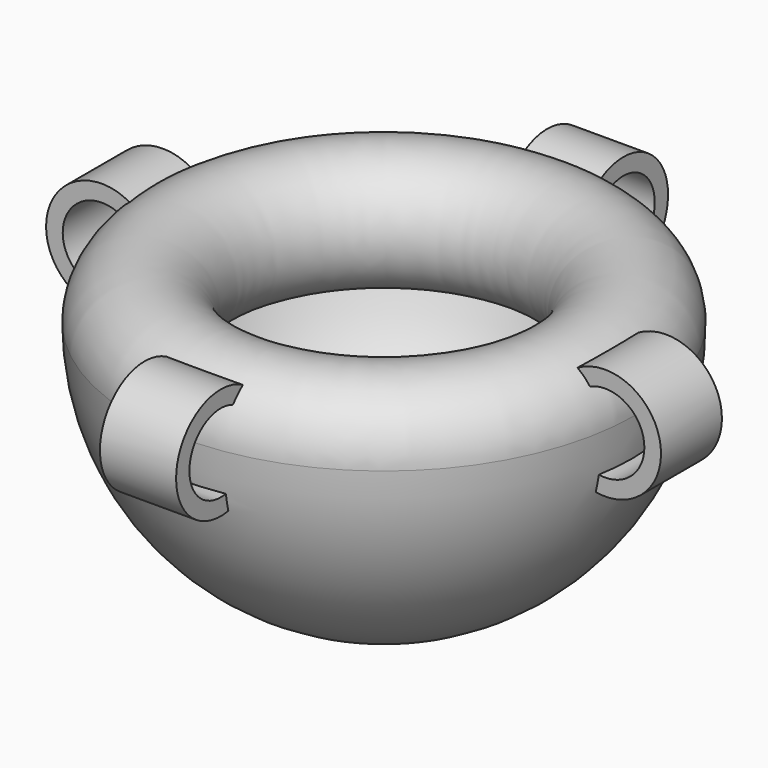
from build123d import *

# Parameters (mm, degrees)
F2_R     = 18.3396458196
F2_R_2   = 12.8738649412
F3_DEPTH = 12.5
F4_COUNT = 4
F4_ANGLE = 270


with BuildPart() as f1:
    # F0 (on Front) → F1 (revolve)
    with BuildSketch(Plane.XZ):
        with BuildLine():
            ThreePointArc((59.3, -19.7423402868), (36.5537531047, -50.6958887284), (0, -62.5))
            Line((0, -62.5), (0, -82.5))
            ThreePointArc((0, -82.5), (58.3363094479, -58.3363094479), (82.5, 0))
            ThreePointArc((82.5, 0), (49.5385186032, 15.2315462117), (59.3, -19.7423402868))
        make_face()
    revolve(axis=Axis((0, 0, 14.3070674052), (0, 0, -1)))

    # F2 (on Front) → F3 (join, symmetric)
    with BuildSketch(Plane.XZ):
        with Locations((-82.6222896576, 0)):
            Circle(F2_R)
        with Locations((-82.6222896576, 0)):
            Circle(F2_R_2, mode=Mode.SUBTRACT)
    extrude(amount=F3_DEPTH, both=True)

    # F4: F1 ×4 about axis
    f4_axis = Axis((0, 0, 14.3070674052), (0, 0, -1))


with BuildPart() as f1_1:
    add(f1.part)
    for i in range(1, F4_COUNT):
        add(f1.part.rotate(f4_axis, i * F4_ANGLE / (F4_COUNT - 1)))


solid = f1_1.part
